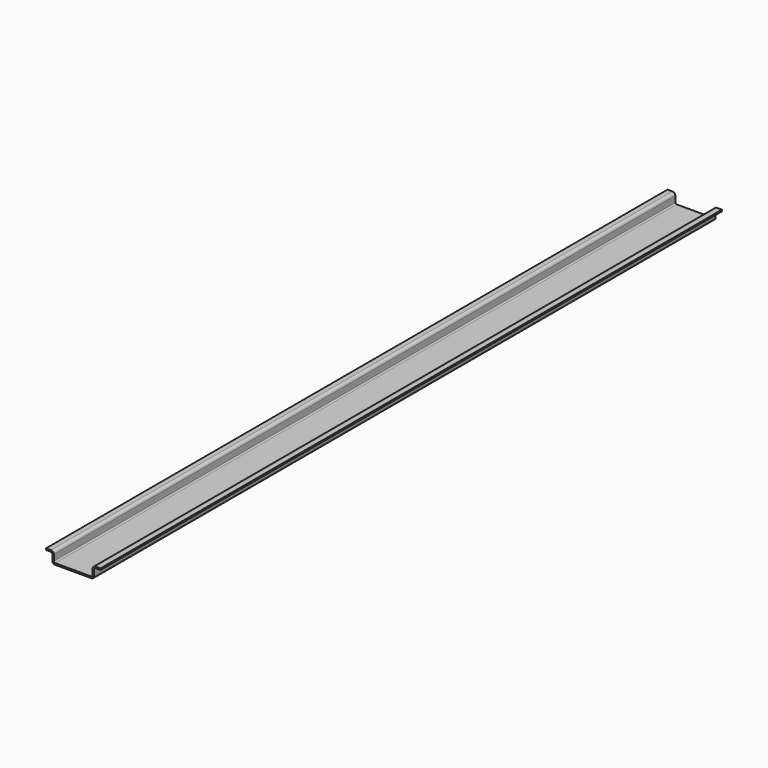
from build123d import *

# Parameters (mm, degrees)
F1_DEPTH = 500


with BuildPart() as f1:
    # F0 (on Front) → F1 (new body)
    with BuildSketch(Plane.XZ):
        with BuildLine():
            Line((-23.4, 0), (0, 0))
            ThreePointArc((0, 0), (1.272792, 0.527208), (1.8, 1.8))
            Line((1.8, 1.8), (1.8, 5.7))
            ThreePointArc((1.8, 5.7), (2.034315, 6.265685), (2.6, 6.5))
            Line((2.6, 6.5), (5.7996, 6.5))
            Line((5.7996, 6.5), (5.8004, 7.5))
            Line((5.8004, 7.5), (2.6, 7.5))
            ThreePointArc((2.6, 7.5), (1.327208, 6.972792), (0.8, 5.7))
            Line((0.8, 5.7), (0.8, 1.8))
            ThreePointArc((0.8, 1.8), (0.565685, 1.234315), (0, 1))
            Line((0, 1), (-23.4, 1))
            ThreePointArc((-23.4, 1), (-23.965685, 1.234315), (-24.2, 1.8))
            Line((-24.2, 1.8), (-24.2, 5.7))
            ThreePointArc((-24.2, 5.7), (-24.727208, 6.972792), (-26, 7.5))
            Line((-26, 7.5), (-29.2004, 7.5))
            Line((-29.2004, 7.5), (-29.2004, 6.5))
            Line((-29.2004, 6.5), (-26, 6.5))
            ThreePointArc((-26, 6.5), (-25.434315, 6.265685), (-25.2, 5.7))
            Line((-25.2, 5.7), (-25.2, 1.8))
            ThreePointArc((-25.2, 1.8), (-24.672792, 0.527208), (-23.4, 0))
        make_face()
    extrude(amount=F1_DEPTH)


solid = f1.part
